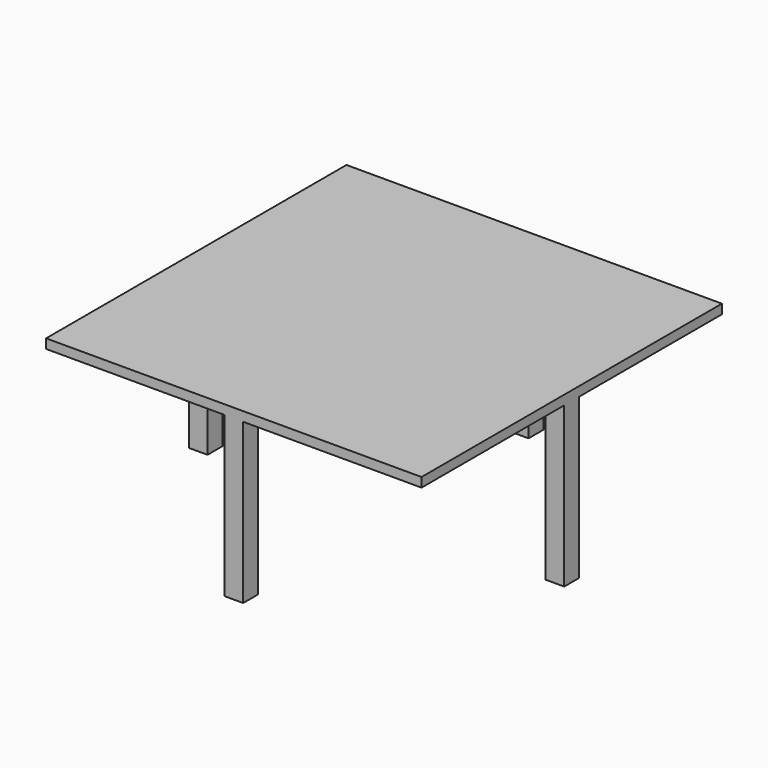
from build123d import *

# Parameters (mm, degrees)
F0_W     = 1016
F0_H     = 1016
F1_DEPTH = 25.4
F2_W     = 50.8
F2_H     = 50.8
F3_DEPTH = 431.8


with BuildPart() as f1:
    # F0 (on Top) → F1 (new body)
    with BuildSketch(Plane.XY):
        with Locations((508, 508)):
            Rectangle(F0_W, F0_H)
    extrude(amount=F1_DEPTH)

    # F2 (on face) → F3 (join)
    with BuildSketch(Plane(origin=(0, 0, 0), x_dir=(1, 0, 0), z_dir=(0, 0, -1))):
        Polygon((50.8, -482.6), (0, -482.6), (0, -508), (0, -533.4), (50.8, -533.4), align=None)
        Polygon((1016, -533.4), (1016, -508), (1016, -482.6), (965.2, -482.6), (965.2, -533.4), align=None)
        with Locations((508, -990.6)):
            Rectangle(F2_W, F2_H)
        with Locations((508, -25.4)):
            Rectangle(F2_W, F2_H)
    extrude(amount=F3_DEPTH)


solid = f1.part
